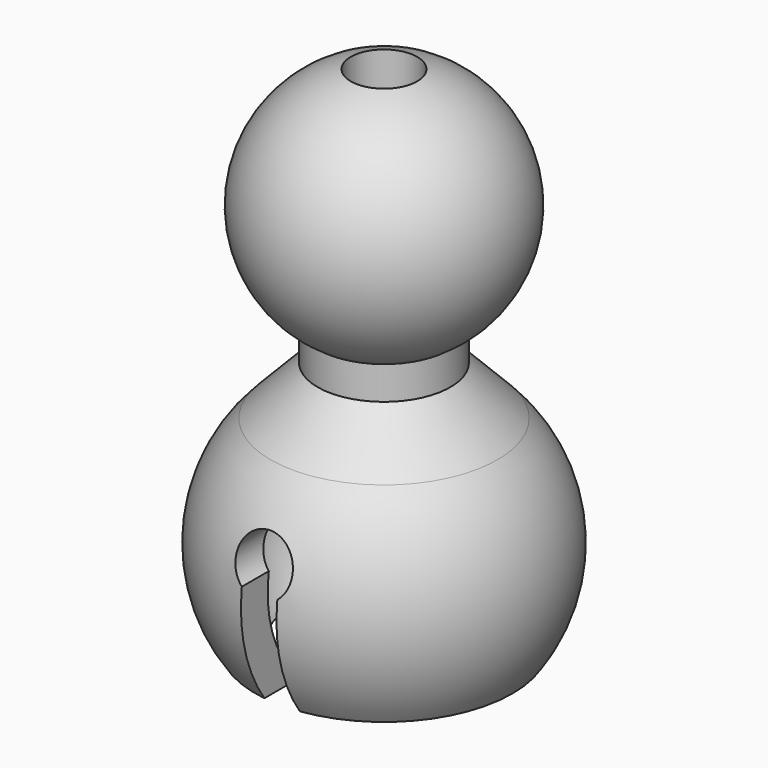
from build123d import *

# Parameters (mm, degrees)
F3_DEPTH = 12.5


with BuildPart() as f1:
    # F0 (on Front) → F1 (revolve)
    with BuildSketch(Plane.XZ):
        with BuildLine():
            ThreePointArc((-4, 11.5336658713), (-3.0323951432, 11.0183205627), (-2, 10.6495384941))
            Line((-2, 10.6495384941), (-2, 25.1063707889))
            ThreePointArc((-2, 25.1063707889), (-7.4198773369, 18.971307423), (-4, 11.5336658713))
        make_face()
        with BuildLine():
            Line((-5.5, -5.1012573213), (-5.497924494, -5.1012573213))
            ThreePointArc((-5.497924494, -5.1012573213), (-7.4996267422, 0.0748246473), (-5.3950485025, 5.2099377784))
            Line((-5.3950485025, 5.2099377784), (-2, 8.7256134196))
            Line((-2, 8.7256134196), (-2, 10.6495384941))
            ThreePointArc((-2, 10.6495384941), (-3.0323951432, 11.0183205627), (-4, 11.5336658713))
            Line((-4, 11.5336658713), (-4, 9.5336658713))
            Line((-4, 9.5336658713), (-6.8337281032, 6.5992545194))
            ThreePointArc((-6.8337281032, 6.5992545194), (-9.4731706837, 0.7134684283), (-7.7450737817, -5.5012573213))
            Line((-7.7450737817, -5.5012573213), (-5.8862755099, -5.5012573213))
            Line((-5.8862755099, -5.5012573213), (-5.5, -5.1012573213))
        make_face()
    revolve(axis=Axis((0, 0, 8.9389773208), (0, 0, 1)))

    # F2 (on Front) → F3 (cut, symmetric)
    with BuildSketch(Plane.XZ):
        with BuildLine():
            ThreePointArc((1.0701133368, 1.1089802261), (1.5302977992, 1.6953809007), (1.6942724564, 2.4225313682))
            ThreePointArc((1.6942724564, 2.4225313682), (-0.7271504675, 3.9528291674), (-1.0701133368, 1.1089802261))
            ThreePointArc((-1.0701133368, 1.1089802261), (0, 0.7282589118), (1.0701133368, 1.1089802261))
        make_face()
        with BuildLine():
            ThreePointArc((1.0701133368, 1.1089802261), (0, 0.7282589118), (-1.0701133368, 1.1089802261))
            Line((-1.0701133368, 1.1089802261), (-1.0701133368, -9.6518955749))
            Line((-1.0701133368, -9.6518955749), (1.0701133368, -9.6518955749))
            Line((1.0701133368, -9.6518955749), (1.0701133368, 1.1089802261))
        make_face()
    extrude(amount=F3_DEPTH, both=True, mode=Mode.SUBTRACT)


solid = f1.part
